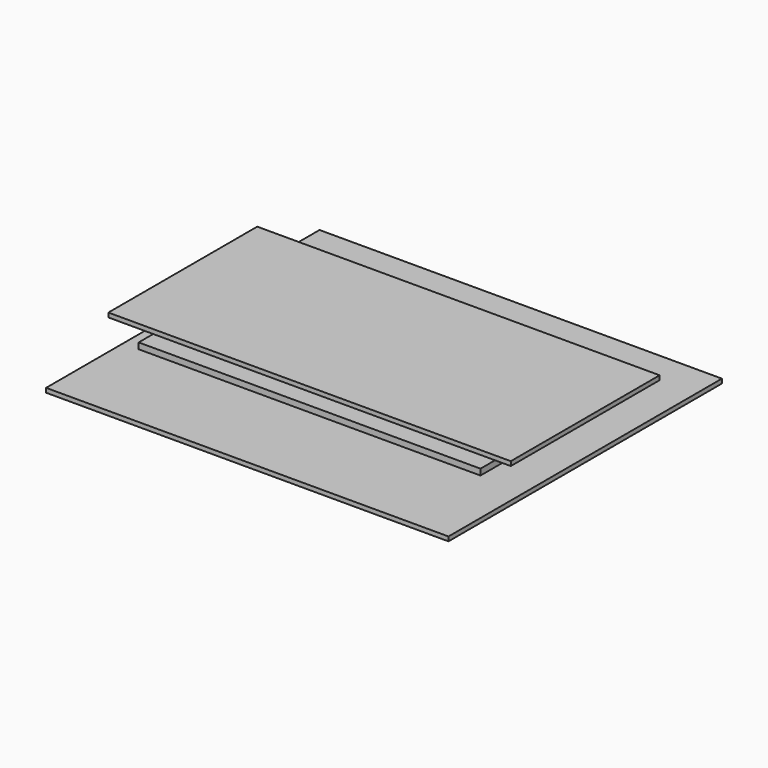
from build123d import *

# Parameters (mm, degrees)
F2_W     = 590.55
F2_H     = 501.65
F3_DEPTH = 3.175
F4_W     = 501.65
F4_H     = 273.05
F5_DEPTH = 4.445
F6_W     = 590.55
F6_H     = 273.05
F7_DEPTH = 3.175


with BuildPart() as f3:
    # F2 (on Top) → F3 (new body, symmetric)
    with BuildSketch(Plane.XY):
        Rectangle(F2_W, F2_H)
    extrude(amount=F3_DEPTH, both=True)


with BuildPart() as f5:
    # F4 (on offset) → F5 (new body, symmetric)
    with BuildSketch(Plane.XY.offset(25.4)):
        Rectangle(F4_W, F4_H)
    extrude(amount=F5_DEPTH, both=True)


with BuildPart() as f7:
    # F6 (on offset) → F7 (new body, symmetric)
    with BuildSketch(Plane.XY.offset(50.8)):
        Rectangle(F6_W, F6_H)
    extrude(amount=F7_DEPTH, both=True)


solid = Compound([f3.part, f5.part, f7.part])
